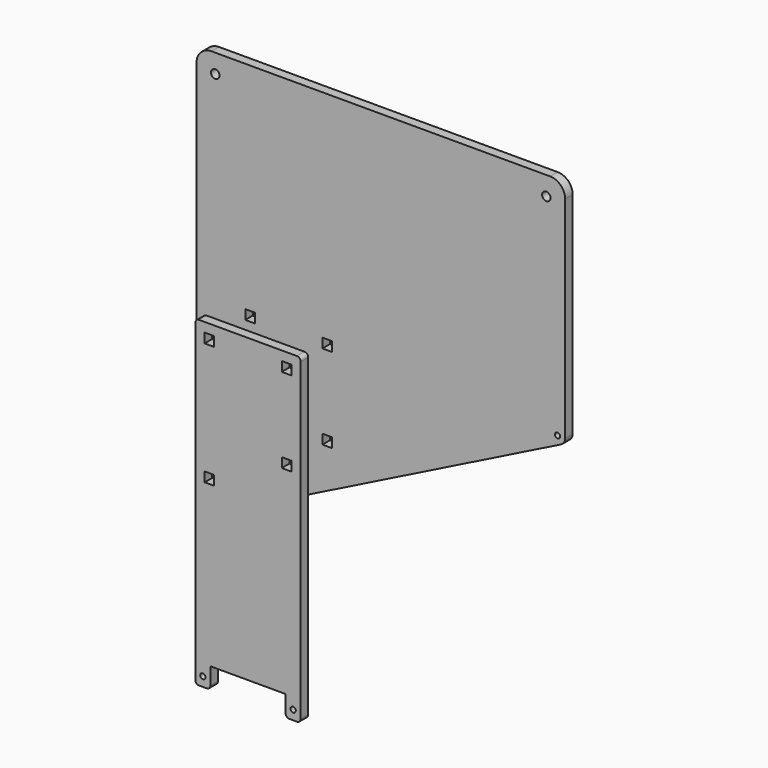
from build123d import *

# Parameters (mm, degrees)
F0_R     = 1.4
F0_W     = 5.1
F0_H     = 5.1
F0_R_2   = 2.25
F3_DEPTH = 5
F2_R     = 1.4
F2_W     = 5.1
F2_H     = 5.1
F4_DEPTH = 5


with BuildPart() as f3:
    # F0 (on Front) → F3 (new body)
    with BuildSketch(Plane.XZ):
        with BuildLine():
            Line((-43.211146, 63.422291), (144.788854, 157.422291))
            ThreePointArc((144.788854, 157.422291), (146.402603, 158.897076), (147, 161))
            Line((147, 161), (147, 273))
            ThreePointArc((147, 273), (144.656854, 278.656854), (139, 281))
            Line((139, 281), (-41, 281))
            ThreePointArc((-41, 281), (-46.656854, 278.656854), (-49, 273))
            Line((-49, 273), (-49, 67))
            ThreePointArc((-49, 67), (-47.102924, 63.597397), (-43.211146, 63.422291))
        make_face()
        with Locations((-45, 67)):
            Circle(F0_R, mode=Mode.SUBTRACT)
        with Locations((-20.5, 98.65)):
            Rectangle(F0_W, F0_H, mode=Mode.SUBTRACT)
        with Locations((-20.5, 163.65)):
            Rectangle(F0_W, F0_H, mode=Mode.SUBTRACT)
        with Locations((20.5, 118.65)):
            Rectangle(F0_W, F0_H, mode=Mode.SUBTRACT)
        with Locations((20.5, 163.65)):
            Rectangle(F0_W, F0_H, mode=Mode.SUBTRACT)
        with Locations((143, 161)):
            Circle(F0_R, mode=Mode.SUBTRACT)
        with Locations((-39, 271)):
            Circle(F0_R_2, mode=Mode.SUBTRACT)
        with Locations((137, 271)):
            Circle(F0_R_2, mode=Mode.SUBTRACT)
    extrude(amount=-F3_DEPTH)


with BuildPart() as f4:
    # F2 (on offset) → F4 (new body)
    with BuildSketch(Plane.XZ.offset(22)):
        with BuildLine():
            ThreePointArc((-28, 2), (-27.414214, 0.585786), (-26, 0))
            Line((-26, 0), (-22, 0))
            ThreePointArc((-22, 0), (-20.585786, 0.585786), (-20, 2))
            Line((-20, 2), (-20, 11))
            Line((-20, 11), (20, 11))
            Line((20, 11), (20, 2))
            ThreePointArc((20, 2), (20.585786, 0.585786), (22, 0))
            Line((22, 0), (26, 0))
            ThreePointArc((26, 0), (27.414214, 0.585786), (28, 2))
            Line((28, 2), (28, 169.15))
            ThreePointArc((28, 169.15), (27.414214, 170.564214), (26, 171.15))
            Line((26, 171.15), (-26, 171.15))
            ThreePointArc((-26, 171.15), (-27.414214, 170.564214), (-28, 169.15))
            Line((-28, 169.15), (-28, 2))
        make_face()
        with Locations((-24, 5)):
            Circle(F2_R, mode=Mode.SUBTRACT)
        with Locations((24, 5)):
            Circle(F2_R, mode=Mode.SUBTRACT)
        with Locations((-20.5, 98.65)):
            Rectangle(F2_W, F2_H, mode=Mode.SUBTRACT)
        with Locations((-20.5, 163.65)):
            Rectangle(F2_W, F2_H, mode=Mode.SUBTRACT)
        with Locations((20.5, 118.65)):
            Rectangle(F2_W, F2_H, mode=Mode.SUBTRACT)
        with Locations((20.5, 163.65)):
            Rectangle(F2_W, F2_H, mode=Mode.SUBTRACT)
    extrude(amount=F4_DEPTH)


solid = Compound([f3.part, f4.part])
